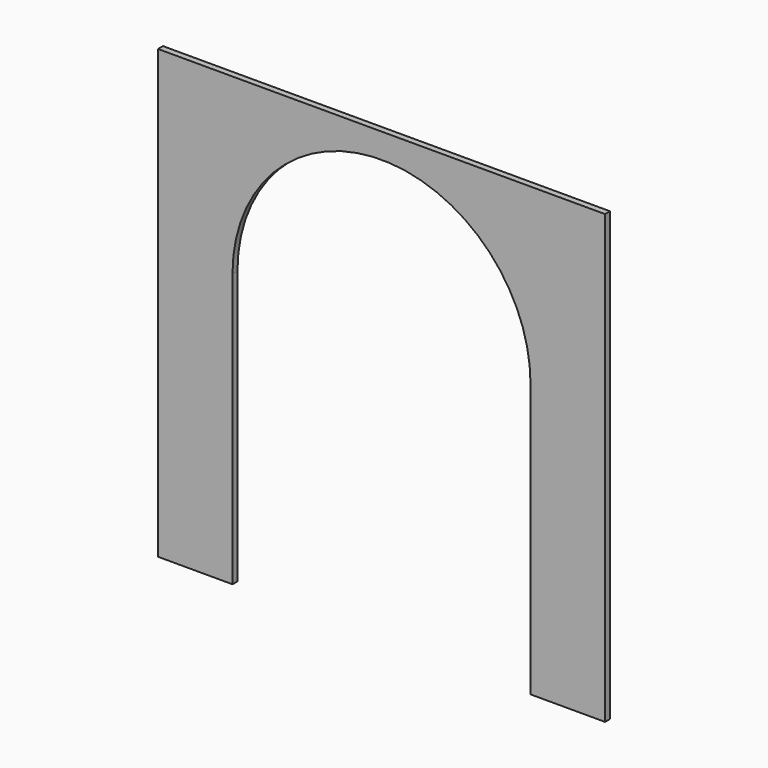
from build123d import *

# Parameters (mm, degrees)
F1_DEPTH = 3.175


with BuildPart() as f1:
    # F0 (on Front) → F1 (new body, symmetric)
    with BuildSketch(Plane.XZ):
        with BuildLine():
            Line((0, 457.2), (0, 0))
            Line((0, 0), (76.2, 0))
            Line((76.2, 0), (76.2, 279.4))
            ThreePointArc((76.2, 279.4), (228.6, 431.8), (381, 279.4))
            Line((381, 279.4), (381, 0))
            Line((381, 0), (457.2, 0))
            Line((457.2, 0), (457.2, 457.2))
            Line((457.2, 457.2), (0, 457.2))
        make_face()
    extrude(amount=F1_DEPTH, both=True)


solid = f1.part
